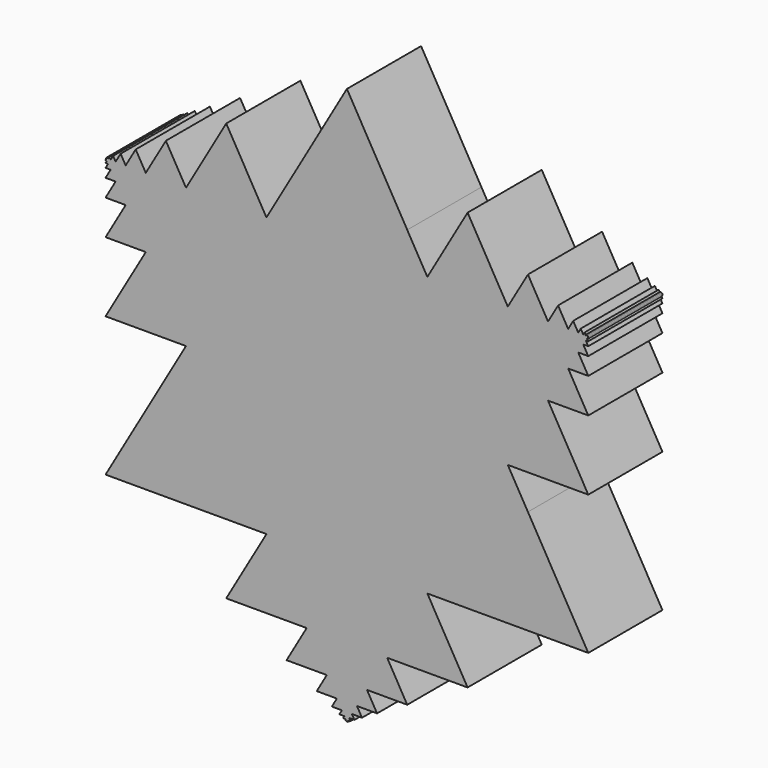
from build123d import *

# Parameters (mm, degrees)
F1_DEPTH = 25


with BuildPart() as f1:
    # F0 (on Front) → F1 (new body)
    with BuildSketch(Plane.XZ):
        Polygon((54.223660749, 37.5672541559), (48.8012946741, 28.1754406169), (59.6460268239, 28.1754406169), (56.9348437865, 32.8713473864), align=None)
        Polygon((43.3789285992, 0), (32.5341964494, 18.7836270779), (21.6894642996, 0), align=None)
        Polygon((0, 0), (-10.8447321498, 18.7836270779), (-32.5341964494, 18.7836270779), (-21.6894642996, 0), align=None)
        Polygon((56.9348437865, 32.8713473864), (59.6460268239, 28.1754406169), (65.0683928988, 28.1754406169), (62.3572098614, 32.8713473864), align=None)
        Polygon((21.6894642996, 0), (32.5341964494, 18.7836270779), (10.8447321498, 18.7836270779), (0, 0), align=None)
        Polygon((48.8012946741, 28.1754406169), (54.223660749, 18.7836270779), (65.0683928988, 18.7836270779), (59.6460268239, 28.1754406169), align=None)
        Polygon((-21.6894642996, 0), (-43.3789285992, 0), (-48.8012946741, -9.391813539), (-16.2670982247, -9.391813539), align=None)
        Polygon((0, -37.5672541559), (-10.8447321498, -18.7836270779), (-21.6894642996, -37.5672541559), align=None)
        Polygon((32.5341964494, 18.7836270779), (21.6894642996, 37.5672541559), (10.8447321498, 18.7836270779), align=None)
        Polygon((-59.6460268239, 28.1754406169), (-48.8012946741, 28.1754406169), (-54.223660749, 37.5672541559), (-56.9348437865, 32.8713473864), align=None)
        Polygon((-10.8447321498, -18.7836270779), (0, 0), (-21.6894642996, 0), (-16.2670982247, -9.391813539), align=None)
        Polygon((54.223660749, 18.7836270779), (32.5341964494, 18.7836270779), (43.3789285992, 0), (65.0683928988, 0), align=None)
        Polygon((-21.6894642996, 0), (-32.5341964494, 18.7836270779), (-43.3789285992, 0), align=None)
        Polygon((32.5341964494, -37.5672541559), (16.2670982247, -9.391813539), (10.8447321498, -18.7836270779), (21.6894642996, -37.5672541559), align=None)
        Polygon((10.8447321498, -56.3508812338), (0, -37.5672541559), (-10.8447321498, -56.3508812338), (0, -56.3508812338), align=None)
        Polygon((48.8012946741, -9.391813539), (43.3789285992, 0), (21.6894642996, 0), (16.2670982247, -9.391813539), align=None)
        Polygon((48.8012946741, 46.9590676948), (43.3789285992, 37.5672541559), (48.8012946741, 28.1754406169), (54.223660749, 37.5672541559), align=None)
        Polygon((-21.6894642996, -37.5672541559), (-10.8447321498, -18.7836270779), (-16.2670982247, -9.391813539), (-32.5341964494, -37.5672541559), align=None)
        Polygon((43.3789285992, 37.5672541559), (32.5341964494, 18.7836270779), (54.223660749, 18.7836270779), (48.8012946741, 28.1754406169), align=None)
        Polygon((-10.8447321498, -56.3508812338), (0, -37.5672541559), (-21.6894642996, -37.5672541559), (-32.5341964494, -56.3508812338), align=None)
        Polygon((32.5341964494, 56.3508812338), (21.6894642996, 37.5672541559), (32.5341964494, 18.7836270779), (43.3789285992, 37.5672541559), align=None)
        Polygon((16.2670982247, -9.391813539), (21.6894642996, 0), (0, 0), (10.8447321498, -18.7836270779), align=None)
        Polygon((21.6894642996, -37.5672541559), (10.8447321498, -18.7836270779), (0, -37.5672541559), align=None)
        Polygon((16.2670982247, 46.9590676948), (0, 75.1345083117), (-16.2670982247, 46.9590676948), (0, 18.7836270779), align=None)
        Polygon((65.0683928988, -37.5672541559), (48.8012946741, -9.391813539), (16.2670982247, -9.391813539), (32.5341964494, -37.5672541559), align=None)
        Polygon((-16.2670982247, -9.391813539), (-48.8012946741, -9.391813539), (-65.0683928988, -37.5672541559), (-32.5341964494, -37.5672541559), align=None)
        Polygon((-43.3789285992, 0), (-32.5341964494, 18.7836270779), (-54.223660749, 18.7836270779), (-65.0683928988, 0), align=None)
        Polygon((-10.8447321498, 18.7836270779), (-21.6894642996, 37.5672541559), (-32.5341964494, 18.7836270779), align=None)
        Polygon((-65.0683928988, 18.7836270779), (-54.223660749, 18.7836270779), (-48.8012946741, 28.1754406169), (-59.6460268239, 28.1754406169), align=None)
        Polygon((-48.8012946741, 28.1754406169), (-43.3789285992, 37.5672541559), (-48.8012946741, 46.9590676948), (-54.223660749, 37.5672541559), align=None)
        Polygon((-32.5341964494, 18.7836270779), (-21.6894642996, 37.5672541559), (-32.5341964494, 56.3508812338), (-43.3789285992, 37.5672541559), align=None)
        Polygon((32.5341964494, -56.3508812338), (21.6894642996, -37.5672541559), (0, -37.5672541559), (10.8447321498, -56.3508812338), align=None)
        Polygon((16.2670982247, -65.7426947728), (10.8447321498, -56.3508812338), (0, -56.3508812338), (5.4223660749, -65.7426947728), align=None)
        Polygon((0, -56.3508812338), (-10.8447321498, -56.3508812338), (-16.2670982247, -65.7426947728), (-5.4223660749, -65.7426947728), align=None)
        Polygon((-54.223660749, 18.7836270779), (-32.5341964494, 18.7836270779), (-43.3789285992, 37.5672541559), (-48.8012946741, 28.1754406169), align=None)
        Polygon((21.6894642996, 37.5672541559), (16.2670982247, 46.9590676948), (0, 18.7836270779), (10.8447321498, 18.7836270779), align=None)
        Polygon((10.8447321498, -18.7836270779), (0, 0), (-10.8447321498, -18.7836270779), (0, -37.5672541559), align=None)
        Polygon((0, 18.7836270779), (-16.2670982247, 46.9590676948), (-21.6894642996, 37.5672541559), (-10.8447321498, 18.7836270779), align=None)
        Polygon((10.8447321498, 18.7836270779), (0, 18.7836270779), (-10.8447321498, 18.7836270779), (0, 0), align=None)
        Polygon((-56.9348437865, 32.8713473864), (-54.223660749, 37.5672541559), (-56.9348437865, 42.2631609254), (-59.6460268239, 37.5672541559), align=None)
        Polygon((0, -65.7426947728), (-5.4223660749, -65.7426947728), (-8.1335491124, -70.4386015423), (-2.7111830375, -70.4386015423), align=None)
        Polygon((8.1335491124, -70.4386015423), (5.4223660749, -65.7426947728), (0, -65.7426947728), (2.7111830375, -70.4386015423), align=None)
        Polygon((56.9348437865, 42.2631609254), (54.223660749, 37.5672541559), (56.9348437865, 32.8713473864), (59.6460268239, 37.5672541559), align=None)
        Polygon((-65.0683928988, 28.1754406169), (-59.6460268239, 28.1754406169), (-56.9348437865, 32.8713473864), (-62.3572098614, 32.8713473864), align=None)
        Polygon((5.4223660749, -65.7426947728), (0, -56.3508812338), (-5.4223660749, -65.7426947728), (0, -65.7426947728), align=None)
        Polygon((2.7111830375, -70.4386015423), (0, -65.7426947728), (-2.7111830375, -70.4386015423), (0, -70.4386015423), align=None)
        Polygon((-62.3572098614, 32.8713473864), (-56.9348437865, 32.8713473864), (-59.6460268239, 37.5672541559), (-61.0016183427, 35.2193007711), align=None)
        Polygon((59.6460268239, 37.5672541559), (56.9348437865, 32.8713473864), (62.3572098614, 32.8713473864), (61.0016183426, 35.2193007711), align=None)
        Polygon((4.0667745562, -72.786554927), (2.7111830375, -70.4386015423), (0, -70.4386015423), (1.3555915187, -72.786554927), align=None)
        Polygon((-61.0016183427, 35.2193007711), (-59.6460268239, 37.5672541559), (-61.0016183427, 39.9152075406), (-62.3572098614, 37.5672541559), align=None)
        Polygon((61.0016183426, 39.9152075406), (59.6460268239, 37.5672541559), (61.0016183426, 35.2193007711), (62.3572098614, 37.5672541559), align=None)
        Polygon((0, -70.4386015423), (-2.7111830375, -70.4386015423), (-4.0667745562, -72.786554927), (-1.3555915187, -72.786554927), align=None)
        Polygon((61.0016183426, 35.2193007711), (62.3572098614, 32.8713473864), (65.0683928988, 32.8713473864), (63.7128013801, 35.2193007711), align=None)
        Polygon((62.3572098614, 37.5672541559), (61.0016183426, 35.2193007711), (63.7128013801, 35.2193007711), (63.0350056207, 36.3932774635), align=None)
        Polygon((-65.0683928988, 32.8713473864), (-62.3572098614, 32.8713473864), (-61.0016183427, 35.2193007711), (-63.7128013801, 35.2193007711), align=None)
        Polygon((1.3555915187, -72.786554927), (0, -70.4386015423), (-1.3555915187, -72.786554927), (0, -72.786554927), align=None)
        Polygon((63.0350056207, 36.3932774635), (63.7128013801, 35.2193007711), (65.0683928988, 35.2193007711), (64.3905971395, 36.3932774635), align=None)
        Polygon((63.0350056207, 38.7412308482), (62.3572098614, 37.5672541559), (63.0350056207, 36.3932774635), (63.7128013801, 37.5672541559), align=None)
        Polygon((63.7128013801, 37.5672541559), (63.0350056207, 36.3932774635), (64.3905971395, 36.3932774635), (64.0516992598, 36.9802658097), align=None)
        Polygon((0, -72.786554927), (-1.3555915187, -72.786554927), (-2.0333872781, -73.9605316194), (-0.6777957594, -73.9605316194), align=None)
        Polygon((2.0333872781, -73.9605316194), (1.3555915187, -72.786554927), (0, -72.786554927), (0.6777957594, -73.9605316194), align=None)
        Polygon((-65.0683928988, 35.2193007711), (-63.7128013801, 35.2193007711), (-63.0350056207, 36.3932774635), (-64.3905971395, 36.3932774635), align=None)
        Polygon((-63.7128013801, 35.2193007711), (-61.0016183427, 35.2193007711), (-62.3572098614, 37.5672541559), (-63.0350056207, 36.3932774635), align=None)
        Polygon((0.5083468195, -74.8410141387), (0.3388978797, -74.5475199656), (0, -74.5475199656), (0.1694489398, -74.8410141387), align=None)
        Polygon((0.6777957594, -73.9605316194), (0, -72.786554927), (-0.6777957594, -73.9605316194), (0, -73.9605316194), align=None)
        Polygon((1.016693639, -74.5475199656), (0.6777957594, -73.9605316194), (0, -73.9605316194), (0.3388978797, -74.5475199656), align=None)
        Polygon((-63.0350056207, 36.3932774635), (-62.3572098614, 37.5672541559), (-63.0350056207, 38.7412308482), (-63.7128013801, 37.5672541559), align=None)
        Polygon((0.3388978797, -74.5475199656), (0, -73.9605316194), (-0.3388978797, -74.5475199656), (0, -74.5475199656), align=None)
        Polygon((0, -74.5475199656), (-0.3388978797, -74.5475199656), (-0.5083468195, -74.8410141387), (-0.1694489398, -74.8410141387), align=None)
        Polygon((0, -74.8410141387), (-0.1694489398, -74.8410141387), (-0.2541734098, -74.9877612252), (-0.0847244699, -74.9877612252), align=None)
        Polygon((64.3905971395, 37.5672541559), (64.0516992598, 36.9802658097), (64.7294950191, 36.9802658097), (64.5600460793, 37.2737599828), align=None)
        Polygon((-65.0683928988, 36.3932774635), (-64.3905971395, 36.3932774635), (-64.0516992598, 36.9802658097), (-64.7294950191, 36.9802658097), align=None)
        Polygon((0.1694489398, -74.8410141387), (0, -74.5475199656), (-0.1694489398, -74.8410141387), (0, -74.8410141387), align=None)
        Polygon((-64.0516992598, 36.9802658097), (-63.7128013801, 37.5672541559), (-64.0516992598, 38.1542425021), (-64.3905971395, 37.5672541559), align=None)
        Polygon((64.0516992598, 38.1542425021), (63.7128013801, 37.5672541559), (64.0516992598, 36.9802658097), (64.3905971395, 37.5672541559), align=None)
        Polygon((-64.3905971395, 36.3932774635), (-63.0350056207, 36.3932774635), (-63.7128013801, 37.5672541559), (-64.0516992598, 36.9802658097), align=None)
        Polygon((-64.5600460793, 37.2737599828), (-64.3905971395, 37.5672541559), (-64.5600460793, 37.860748329), (-64.7294950191, 37.5672541559), align=None)
        Polygon((0.2541734098, -74.9877612252), (0.1694489398, -74.8410141387), (0, -74.8410141387), (0.0847244699, -74.9877612252), align=None)
        Polygon((0, -73.9605316194), (-0.6777957594, -73.9605316194), (-1.016693639, -74.5475199656), (-0.3388978797, -74.5475199656), align=None)
        Polygon((64.5600460793, 37.860748329), (64.3905971395, 37.5672541559), (64.5600460793, 37.2737599828), (64.7294950191, 37.5672541559), align=None)
        Polygon((0.0847244699, -74.9877612252), (0, -74.8410141387), (-0.0847244699, -74.9877612252), align=None)
        Polygon((-64.7294950191, 36.9802658097), (-64.0516992598, 36.9802658097), (-64.3905971395, 37.5672541559), (-64.5600460793, 37.2737599828), align=None)
        Polygon((64.0516992598, 36.9802658097), (64.3905971395, 36.3932774635), (65.0683928988, 36.3932774635), (64.7294950191, 36.9802658097), align=None)
        Polygon((-64.9836684289, 37.4205070693), (-64.8142194891, 37.4205070693), (-64.898943959, 37.5672541559), align=None)
        Polygon((64.8142194891, 37.7140012424), (64.7294950191, 37.5672541559), (64.8142194891, 37.4205070693), (64.898943959, 37.5672541559), align=None)
        Polygon((-65.0683928988, 36.9802658097), (-64.7294950191, 36.9802658097), (-64.5600460793, 37.2737599828), (-64.898943959, 37.2737599828), align=None)
        Polygon((64.5600460793, 37.2737599828), (64.7294950191, 36.9802658097), (65.0683928988, 36.9802658097), (64.898943959, 37.2737599828), align=None)
        Polygon((0.1270867049, -75.0611347685), (0.0847244699, -74.9877612252), (-0.0847244699, -74.9877612252), (-0.1270867049, -75.0611347685), align=None)
        Polygon((64.8142194891, 37.4205070693), (64.898943959, 37.2737599828), (65.0683928988, 37.2737599828), (64.9836684289, 37.4205070693), align=None)
        Polygon((-65.0683928988, 37.2737599828), (-64.898943959, 37.2737599828), (-64.8142194891, 37.4205070693), (-64.9836684289, 37.4205070693), align=None)
        Polygon((64.898943959, 37.5672541559), (64.8142194891, 37.4205070693), (64.9836684289, 37.4205070693), align=None)
        Polygon((-64.8142194891, 37.4205070693), (-64.7294950191, 37.5672541559), (-64.8142194891, 37.7140012424), (-64.898943959, 37.5672541559), align=None)
        Polygon((-64.898943959, 37.2737599828), (-64.5600460793, 37.2737599828), (-64.7294950191, 37.5672541559), (-64.8142194891, 37.4205070693), align=None)
        Polygon((64.9413061939, 37.6406276991), (64.898943959, 37.5672541559), (64.9836684289, 37.4205070693), (65.0683928988, 37.4205070693), align=None)
        Polygon((64.7294950191, 37.5672541559), (64.5600460793, 37.2737599828), (64.898943959, 37.2737599828), (64.8142194891, 37.4205070693), align=None)
        Polygon((-65.0683928988, 37.4205070693), (-64.9836684289, 37.4205070693), (-64.898943959, 37.5672541559), (-64.9413061939, 37.6406276991), align=None)
    extrude(amount=F1_DEPTH)


solid = f1.part
